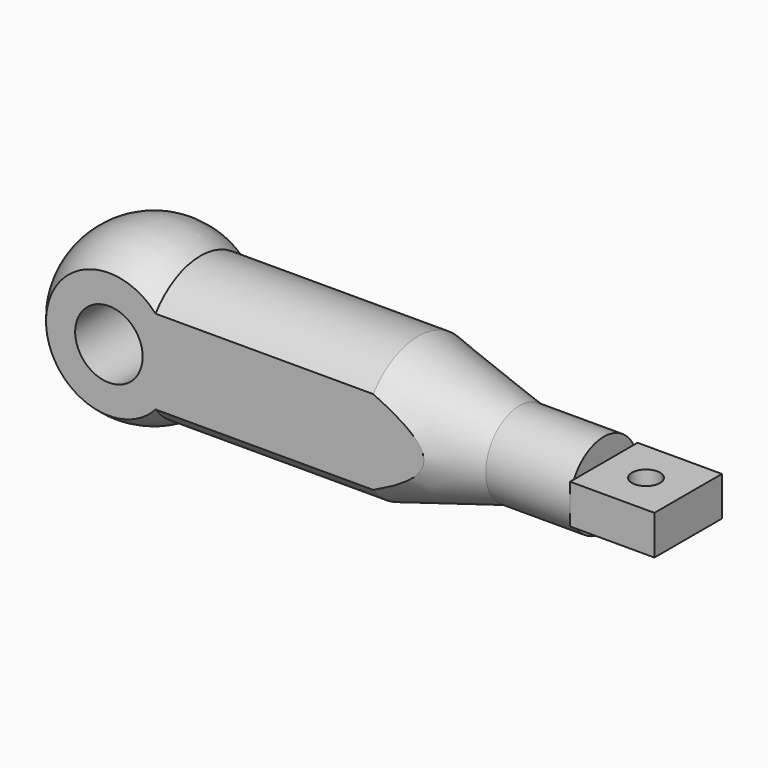
from build123d import *

# Parameters (mm, degrees)
F0_W      = 15
F0_H      = 7
F1_DEPTH  = 7.5
F3_W      = 15
F3_H      = 7.5
F0_R      = 6
F7_DEPTH  = 15
F8_R      = 2.5
F9_DEPTH  = 3.5
F10_W     = 5
F10_H     = 30
F11_DEPTH = 75
F12_DEPTH = 75


with BuildPart() as f1:
    # F0 (on Front) → F1 (new body, symmetric)
    with BuildSketch(Plane.XZ):
        with Locations((87.5, 0)):
            Rectangle(F0_W, F0_H)
    extrude(amount=F1_DEPTH, both=True)

    # F3 (on Front) → F4 (revolve)
    with BuildSketch(Plane.XZ):
        with Locations((72.5, 3.75)):
            Rectangle(F3_W, F3_H)
    revolve(axis=Axis((58.526332, 0, 0), (1, 0, 0)))

    # F5 (on Front) → F6 (revolve)
    with BuildSketch(Plane.XZ):
        with BuildLine():
            Line((47, 12.5), (8.291562, 12.5))
            ThreePointArc((8.291562, 12.5), (-7.093186, 13.21691), (-15, 0))
            Line((-15, 0), (65, 0))
            Line((65, 0), (65, 7.5))
            Line((65, 7.5), (47, 12.5))
        make_face()
    revolve(axis=Axis((25, 0, 0), (1, 0, 0)))

    # F0 (on Front) → F7 (cut, symmetric)
    with BuildSketch(Plane.XZ):
        Circle(F0_R)
    extrude(amount=F7_DEPTH, both=True, mode=Mode.SUBTRACT)

    # F8 (on Top) → F9 (cut, symmetric)
    with BuildSketch(Plane.XY):
        with Locations((87.5, 0)):
            Circle(F8_R)
    extrude(amount=F9_DEPTH, both=True, mode=Mode.SUBTRACT)

    # F10 (on Right) → F11 (cut, symmetric)
    with BuildSketch(Plane.YZ):
        with Locations((12.5, 0)):
            Rectangle(F10_W, F10_H)
    extrude(amount=F11_DEPTH, both=True, mode=Mode.SUBTRACT)

    # F10 (on Right) → F12 (cut, symmetric)
    with BuildSketch(Plane.YZ):
        with Locations((-12.5, 0)):
            Rectangle(F10_W, F10_H)
    extrude(amount=F12_DEPTH, both=True, mode=Mode.SUBTRACT)


solid = f1.part
